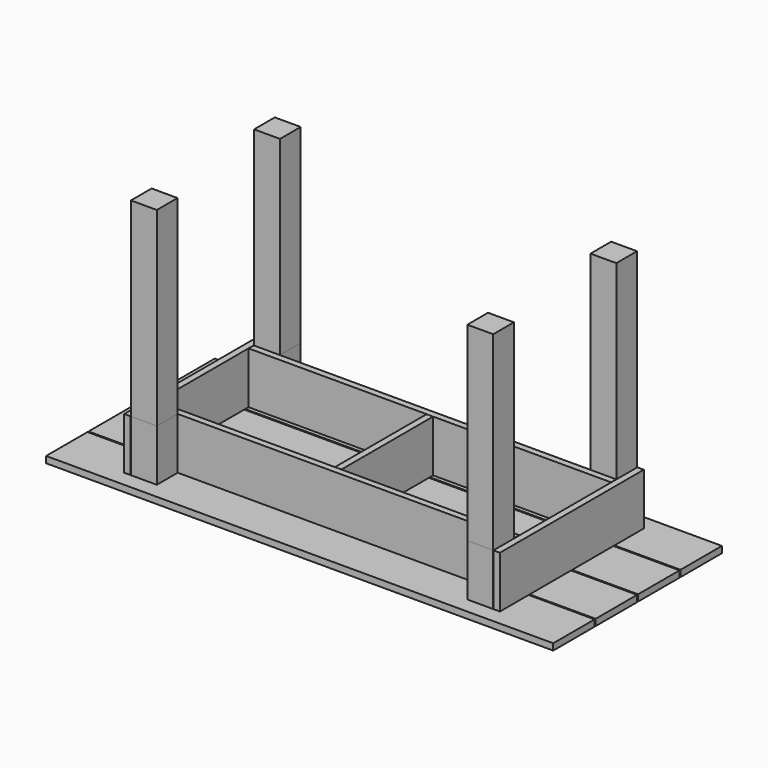
from build123d import *

# Parameters (mm, degrees)
F0_W     = 1960
F0_H     = 200
F1_DEPTH = 25
F3_W     = 100
F3_H     = 100
F4_DEPTH = 200
F3_W_2   = 700
F3_H_2   = 25
F3_W_3   = 25
F3_H_3   = 347.5
F3_W_4   = 12.5
F3_H_4   = 220.5
F5_DEPTH = 735


with BuildPart() as f1:
    # F0 (on Top) → F1 (new body)
    with BuildSketch(Plane.XY):
        with Locations((63.9439821243, -310.4851912497)):
            Rectangle(F0_W, F0_H)
    extrude(amount=F1_DEPTH)


with BuildPart() as f1b:
    # F0 (on Top) → F1, piece 2 (new body)
    with BuildSketch(Plane.XY):
        with Locations((63.9439821243, -105.4851912497)):
            Rectangle(F0_W, F0_H)
    extrude(amount=F1_DEPTH)


with BuildPart() as f1c:
    # F0 (on Top) → F1, piece 3 (new body)
    with BuildSketch(Plane.XY):
        with Locations((63.9439821243, 99.5148087503)):
            Rectangle(F0_W, F0_H)
    extrude(amount=F1_DEPTH)


with BuildPart() as f1d:
    # F0 (on Top) → F1, piece 4 (new body)
    with BuildSketch(Plane.XY):
        with Locations((63.9439821243, 304.5148087503)):
            Rectangle(F0_W, F0_H)
    extrude(amount=F1_DEPTH)


with BuildPart() as f4:
    # F3 (on offset) → F4 (new body)
    with BuildSketch(Plane.XY.offset(26)):
        with Locations((-586.0560178757, 294.5148087503)):
            Rectangle(F3_W, F3_H)
    extrude(amount=F4_DEPTH)


with BuildPart() as f4b:
    # F3 (on offset) → F4, piece 2 (new body)
    with BuildSketch(Plane.XY.offset(26)):
        with Locations((-286.0560178757, 231.0148087503)):
            Rectangle(F3_W_2, F3_H_2)
        with Locations((413.9439821243, 231.0148087503)):
            Rectangle(F3_W_2, F3_H_2)
    extrude(amount=F4_DEPTH)


with BuildPart() as f4c:
    # F3 (on offset) → F4, piece 3 (new body)
    with BuildSketch(Plane.XY.offset(26)):
        with Locations((-649.5560178757, 170.7648087503)):
            Rectangle(F3_W_3, F3_H_3)
        with Locations((-649.5560178757, -176.7351912497)):
            Rectangle(F3_W_3, F3_H_3)
    extrude(amount=F4_DEPTH)


with BuildPart() as f4d:
    # F3 (on offset) → F4, piece 4 (new body)
    with BuildSketch(Plane.XY.offset(26)):
        with Locations((57.6939821243, -113.2351912497)):
            Rectangle(F3_W_4, F3_H_4)
        with Locations((57.6939821243, 107.2648087503)):
            Rectangle(F3_W_4, F3_H_4)
        with Locations((70.1939821243, 107.2648087503)):
            Rectangle(F3_W_4, F3_H_4)
        with Locations((70.1939821243, -113.2351912497)):
            Rectangle(F3_W_4, F3_H_4)
    extrude(amount=F4_DEPTH)


with BuildPart() as f4e:
    # F3 (on offset) → F4, piece 5 (new body)
    with BuildSketch(Plane.XY.offset(26)):
        with Locations((777.4439821243, -176.7351912497)):
            Rectangle(F3_W_3, F3_H_3)
        with Locations((777.4439821243, 170.7648087503)):
            Rectangle(F3_W_3, F3_H_3)
    extrude(amount=F4_DEPTH)


with BuildPart() as f4f:
    # F3 (on offset) → F4, piece 6 (new body)
    with BuildSketch(Plane.XY.offset(26)):
        with Locations((713.9439821243, 294.5148087503)):
            Rectangle(F3_W, F3_H)
    extrude(amount=F4_DEPTH)


with BuildPart() as f4g:
    # F3 (on offset) → F4, piece 7 (new body)
    with BuildSketch(Plane.XY.offset(26)):
        with Locations((413.9439821243, -236.9851912497)):
            Rectangle(F3_W_2, F3_H_2)
        with Locations((-286.0560178757, -236.9851912497)):
            Rectangle(F3_W_2, F3_H_2)
    extrude(amount=F4_DEPTH)


with BuildPart() as f4h:
    # F3 (on offset) → F4, piece 8 (new body)
    with BuildSketch(Plane.XY.offset(26)):
        with Locations((-586.0560178757, -300.4851912497)):
            Rectangle(F3_W, F3_H)
    extrude(amount=F4_DEPTH)


with BuildPart() as f4i:
    # F3 (on offset) → F4, piece 9 (new body)
    with BuildSketch(Plane.XY.offset(26)):
        with Locations((713.9439821243, -300.4851912497)):
            Rectangle(F3_W, F3_H)
    extrude(amount=F4_DEPTH)


with BuildPart() as f5:
    # F5 (new): a face of the model
    f5_faces = [f4h.part.faces().sort_by_distance(p)[0] for p in [
        (-586.0560178757, -300.4851912497, 226),
    ]]
    extrude(f5_faces, amount=F5_DEPTH)


with BuildPart() as f5b:
    # F5#2 (new): a face of the model
    f5_2_faces = [f4.part.faces().sort_by_distance(p)[0] for p in [
        (-586.0560178757, 294.5148087503, 226),
    ]]
    extrude(f5_2_faces, amount=F5_DEPTH)


with BuildPart() as f5c:
    # F5#3 (new): a face of the model
    f5_3_faces = [f4f.part.faces().sort_by_distance(p)[0] for p in [
        (713.9439821243, 294.5148087503, 226),
    ]]
    extrude(f5_3_faces, amount=F5_DEPTH)


with BuildPart() as f5d:
    # F5#4 (new): a face of the model
    f5_4_faces = [f4i.part.faces().sort_by_distance(p)[0] for p in [
        (713.9439821243, -300.4851912497, 226),
    ]]
    extrude(f5_4_faces, amount=F5_DEPTH)


solid = Compound([f1.part, f1b.part, f1c.part, f1d.part, f4.part, f4b.part, f4c.part, f4d.part, f4e.part, f4f.part, f4g.part, f4h.part, f4i.part, f5.part, f5b.part, f5c.part, f5d.part])
